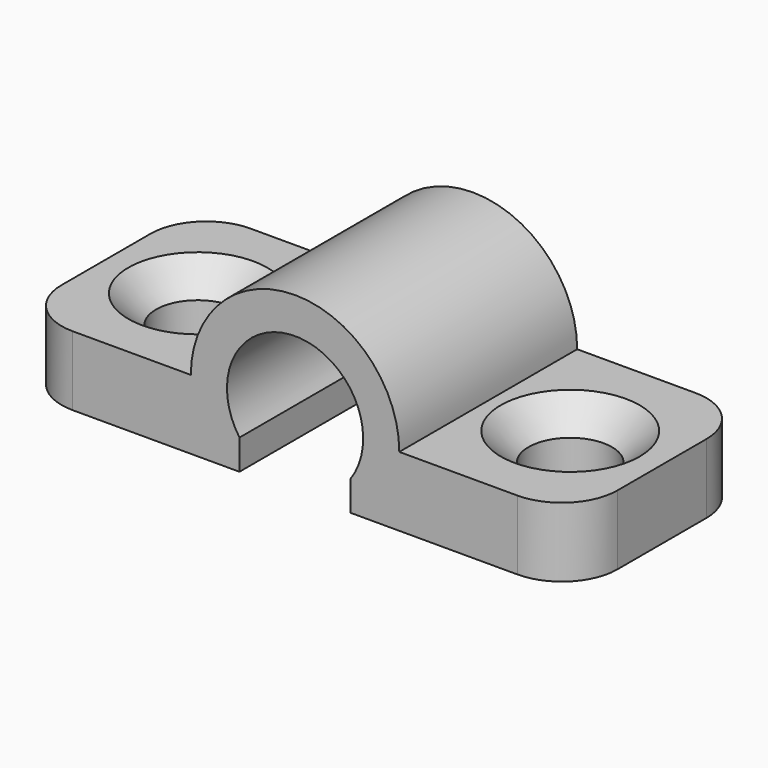
from build123d import *

# Parameters (mm, degrees)
PAD_DEPTH    = 8
SKETCH001_R  = 1.5
POCKET_DEPTH = 2.501
CHAMFER_SIZE = 1
FILLET_R     = 2


with BuildPart() as part:
    # Sketch → Pad (new body)
    with BuildSketch(Plane.XZ):
        with BuildLine():
            ThreePointArc((12, 1.084903), (10, 4.95), (8, 1.084903))
            Line((8, 1.084903), (8, 0))
            Line((0, 0), (8, 0))
            Line((0, 2.5), (0, 0))
            Line((6.25, 2.5), (0, 2.5))
            ThreePointArc((13.75, 2.5), (10, 6.25), (6.25, 2.5))
            Line((20, 2.5), (13.75, 2.5))
            Line((20, 0), (20, 2.5))
            Line((12, 0), (20, 0))
            Line((12, 1.084903), (12, 0))
        make_face()
    extrude(amount=PAD_DEPTH)

    # Sketch001 → Pocket (cut, through all)
    with BuildSketch(Plane.XY.offset(2.5)):
        with Locations((3.3, -4)):
            Circle(SKETCH001_R)
        with Locations((16.7, -4)):
            Circle(SKETCH001_R)
    extrude(amount=-POCKET_DEPTH, mode=Mode.SUBTRACT)

    # Chamfer
    chamfer_edges = [part.edges().sort_by_distance(p)[0] for p in [
        (1.8, -4, 2.5),
        (15.2, -4, 2.5),
    ]]
    chamfer(chamfer_edges, length=CHAMFER_SIZE)

    # Fillet
    fillet_edges = [part.edges().sort_by_distance(p)[0] for p in [
        (0, -8, 1.25),
        (20, -8, 1.25),
        (20, 0, 1.25),
        (0, 0, 1.25),
    ]]
    fillet(fillet_edges, radius=FILLET_R)


solid = part.part
